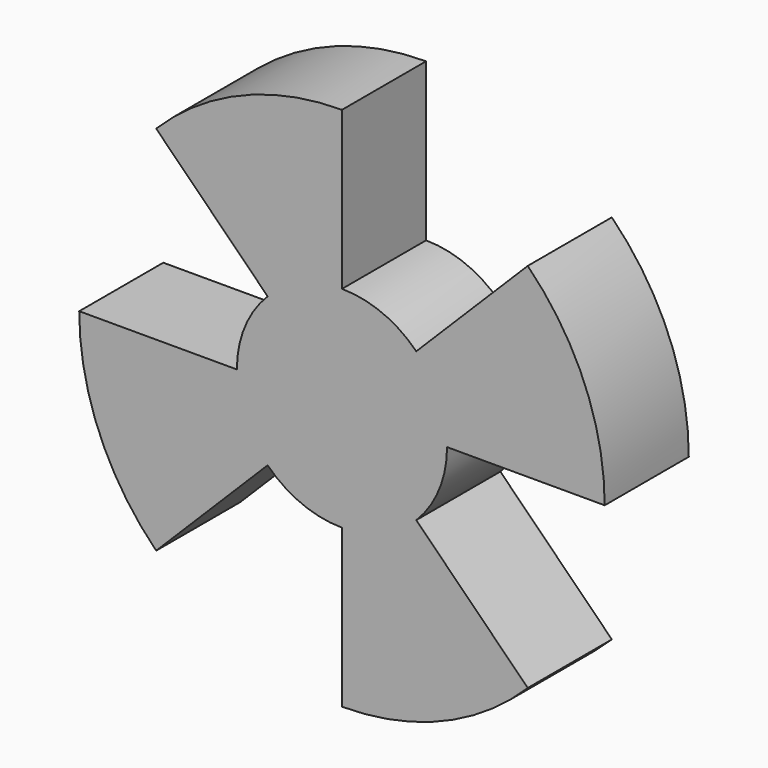
from build123d import *

# Parameters (mm, degrees)
F1_DEPTH = 10


with BuildPart() as f1:
    # F0 (on Front) → F1 (new body)
    with BuildSketch(Plane.XZ):
        with BuildLine():
            Line((-10, 0), (-25, 0))
            ThreePointArc((-25, 0), (-23.096988, -9.567086), (-17.67767, -17.67767))
            Line((-17.67767, -17.67767), (-7.071068, -7.071068))
            ThreePointArc((-7.071068, -7.071068), (-3.826834, -9.238795), (0, -10))
            Line((0, -10), (0, -25))
            ThreePointArc((0, -25), (9.567086, -23.096988), (17.67767, -17.67767))
            Line((17.67767, -17.67767), (7.071068, -7.071068))
            ThreePointArc((7.071068, -7.071068), (9.238795, -3.826834), (10, 0))
            Line((10, 0), (25, 0))
            ThreePointArc((25, 0), (23.096988, 9.567086), (17.67767, 17.67767))
            Line((17.67767, 17.67767), (7.071068, 7.071068))
            ThreePointArc((7.071068, 7.071068), (3.826834, 9.238795), (0, 10))
            Line((0, 10), (0, 25))
            ThreePointArc((0, 25), (-9.567086, 23.096988), (-17.67767, 17.67767))
            Line((-17.67767, 17.67767), (-7.071068, 7.071068))
            ThreePointArc((-7.071068, 7.071068), (-9.238795, 3.826834), (-10, 0))
        make_face()
    extrude(amount=F1_DEPTH)


solid = f1.part
